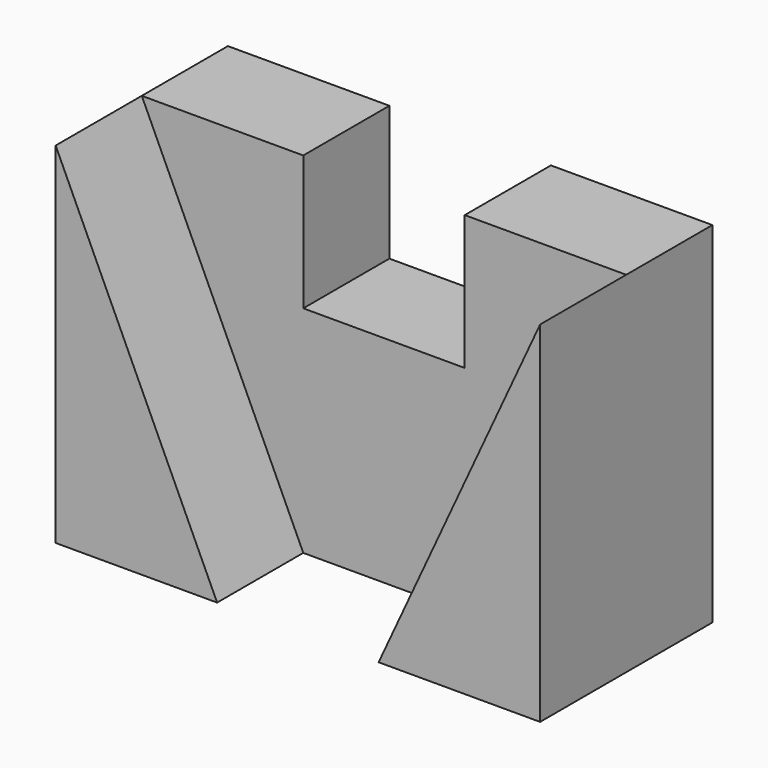
from build123d import *

# Parameters (mm, degrees)
F1_DEPTH = 400
F2_DEPTH = 200


with BuildPart() as f1:
    # F0 (on Front) → F1 (new body)
    with BuildSketch(Plane.XZ):
        Polygon((-450, -325), (-150, -325), (-450, 325), align=None)
        Polygon((450, -325), (450, 325), (150, -325), align=None)
    extrude(amount=F1_DEPTH)


with BuildPart() as f2:
    # F0 (on Front) → F2 (new body)
    with BuildSketch(Plane.XZ):
        Polygon((150, -325), (450, 325), (150, 325), (150, 75), (-150, 75), (-150, 325), (-450, 325), (-150, -325), align=None)
    extrude(amount=F2_DEPTH)


solid = Compound([f1.part, f2.part])
